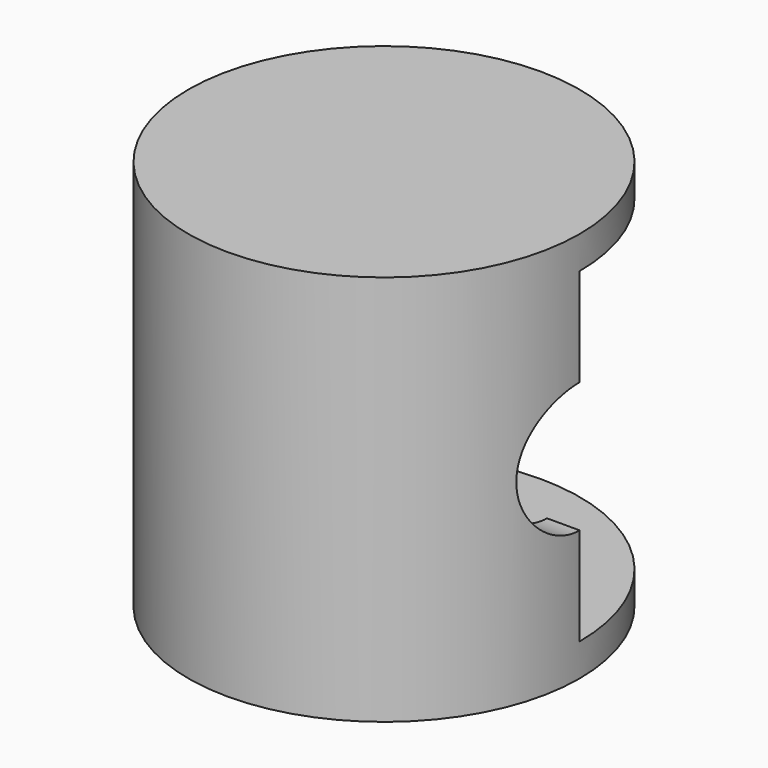
from build123d import *

# Parameters (mm, degrees)
F0_R     = 76.2
F1_DEPTH = 152.4
F2_W     = 76.771498
F2_H     = 127
F3_DEPTH = 76.2
F4_R     = 63.5
F5_DEPTH = 127
F6_R     = 25.4
F7_DEPTH = 76.2


with BuildPart() as f1:
    # F0 (on Top) → F1 (new body)
    with BuildSketch(Plane.XY):
        Circle(F0_R)
    extrude(amount=F1_DEPTH)

    # F2 (on Right) → F3 (cut, symmetric)
    with BuildSketch(Plane.YZ):
        with Locations((38.385749, 76.2)):
            Rectangle(F2_W, F2_H)
    extrude(amount=F3_DEPTH, both=True, mode=Mode.SUBTRACT)

    # F4 (on face) → F5 (cut)
    with BuildSketch(Plane.XY.offset(12.7)):
        Circle(F4_R)
    extrude(amount=F5_DEPTH, mode=Mode.SUBTRACT)

    # F6 (on Right) → F7 (cut, symmetric)
    with BuildSketch(Plane.YZ):
        with Locations((0, 76.2)):
            Circle(F6_R)
    extrude(amount=F7_DEPTH, both=True, mode=Mode.SUBTRACT)


solid = f1.part
